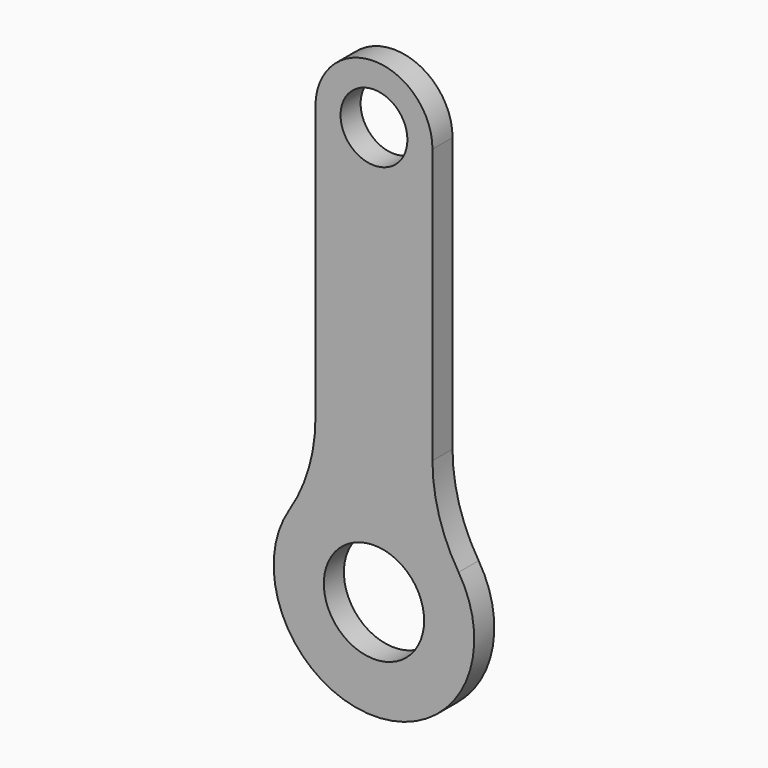
from build123d import *

# Parameters (mm, degrees)
F0_R     = 3
F0_R_2   = 2
F1_DEPTH = 1.5


with BuildPart() as f1:
    # F0 (on Front) → F1 (new body)
    with BuildSketch(Plane.XZ):
        with BuildLine():
            ThreePointArc((3.5, 25), (0, 28.5), (-3.5, 25))
            Line((-3.5, 25), (-3.5, 8.587782))
            ThreePointArc((-3.5, 8.587782), (-3.898568, 5.792697), (-5.0625, 3.220418))
            ThreePointArc((-5.0625, 3.220418), (0, -6), (5.0625, 3.220418))
            ThreePointArc((5.0625, 3.220418), (3.898568, 5.792697), (3.5, 8.587782))
            Line((3.5, 8.587782), (3.5, 25))
        make_face()
        Circle(F0_R, mode=Mode.SUBTRACT)
        with Locations((0, 25)):
            Circle(F0_R_2, mode=Mode.SUBTRACT)
    extrude(amount=F1_DEPTH)


solid = f1.part
